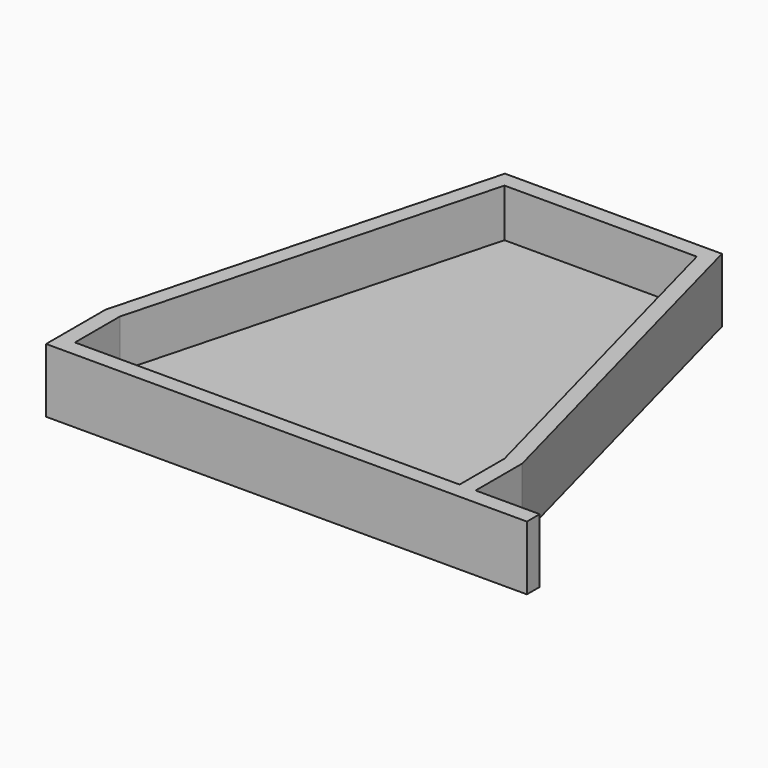
from build123d import *

# Parameters (mm, degrees)
F2_DEPTH = 3.175
F3_DEPTH = 12.7
F4_W     = 3.175
F4_H     = 12.7
F5_DEPTH = 12.7


with BuildPart() as f2:
    # F0 (on Top) → F2 (new body)
    with BuildSketch(Plane.XY):
        Polygon((-38.1, -30.1625), (-38.1, -41.275), (38.1, -41.275), (38.1, -30.1625), (19.05, 41.275), (-19.05, 41.275), align=None)
    extrude(amount=F2_DEPTH)

    # F1 (on face) → F3 (join)
    with BuildSketch(Plane.XY):
        Polygon((21.489284, 44.45), (-21.489284, 44.45), (-41.275, -29.746436), (-41.275, -44.45), (41.275, -44.45), (41.275, -29.746436), align=None)
        Polygon((-38.1, -41.275), (-38.1, -30.1625), (-19.05, 41.275), (19.05, 41.275), (38.1, -30.1625), (38.1, -41.275), align=None, mode=Mode.SUBTRACT)
    extrude(amount=F3_DEPTH)

    # F4 (on face) → F5 (join)
    with BuildSketch(Plane.YZ.offset(41.275)):
        with Locations((-42.8625, 6.35)):
            Rectangle(F4_W, F4_H)
    extrude(amount=F5_DEPTH)


solid = f2.part
